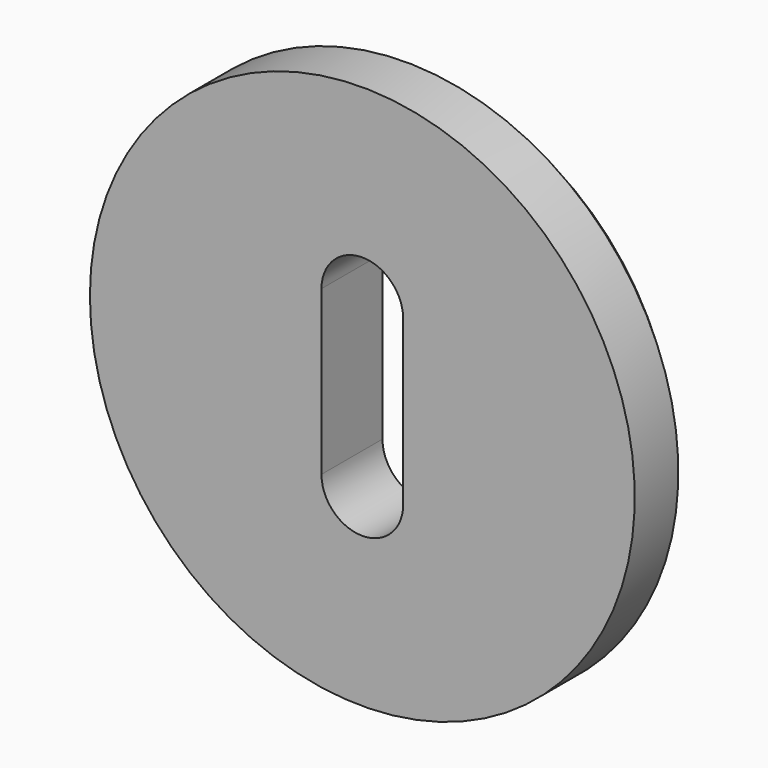
from build123d import *

# Parameters (mm, degrees)
EXTRUDE020_DEPTH = 10
CIRCLE002_R      = 25
EXTRUDE019_DEPTH = 7
CHAMFER002_SIZE  = 2


with BuildPart() as extrude020:
    # Sketch030 (on Face4 of Chamfer002) → Extrude020 (new body, symmetric)
    with BuildSketch(Plane(origin=(0, 7, 0), x_dir=(-1, 0, 0), z_dir=(0, 1, 0))):
        with BuildLine():
            ThreePointArc((3.75, 7.5), (0, 11.25), (-3.75, 7.5))
            Line((-3.75, 7.5), (-3.75, -7.5))
            ThreePointArc((-3.75, -7.5), (0, -11.25), (3.75, -7.5))
            Line((3.75, 7.5), (3.75, -7.5))
        make_face()
    extrude(amount=EXTRUDE020_DEPTH, both=True)


with BuildPart() as shutters_lock_right_internal:
    # Circle002 → Extrude019 (new body)
    with BuildSketch(Plane.XZ):
        Circle(CIRCLE002_R)
    extrude(amount=-EXTRUDE019_DEPTH)

    # Chamfer002
    chamfer002_edges = [shutters_lock_right_internal.edges().sort_by_distance(p)[0] for p in [
        (-25, 7, 0),
    ]]
    chamfer(chamfer002_edges, length=CHAMFER002_SIZE)

    # Cut004: cut Extrude020
    add(extrude020.part, mode=Mode.SUBTRACT)


with BuildPart() as shutters_lock_right_internal_1:
    # Cut004 placement: moved
    add(shutters_lock_right_internal.part.moved(Location((0, 0, -83.343755))))


with BuildPart() as shutters_lock_right_internal_2:
    # Clone048 placement: moved
    add(shutters_lock_right_internal_1.part.moved(Location((-325, -110, 33.343755))))


with BuildPart() as shutters_lock_left_internal_mirrored:
    # Mirror179: instance of Shutters_lock_right_internal_
    add(shutters_lock_right_internal_2.part.mirror(Plane(origin=(0, 0, 0), x_dir=(0, -1, 0), z_dir=(1, 0, 0))))


solid = shutters_lock_left_internal_mirrored.part
